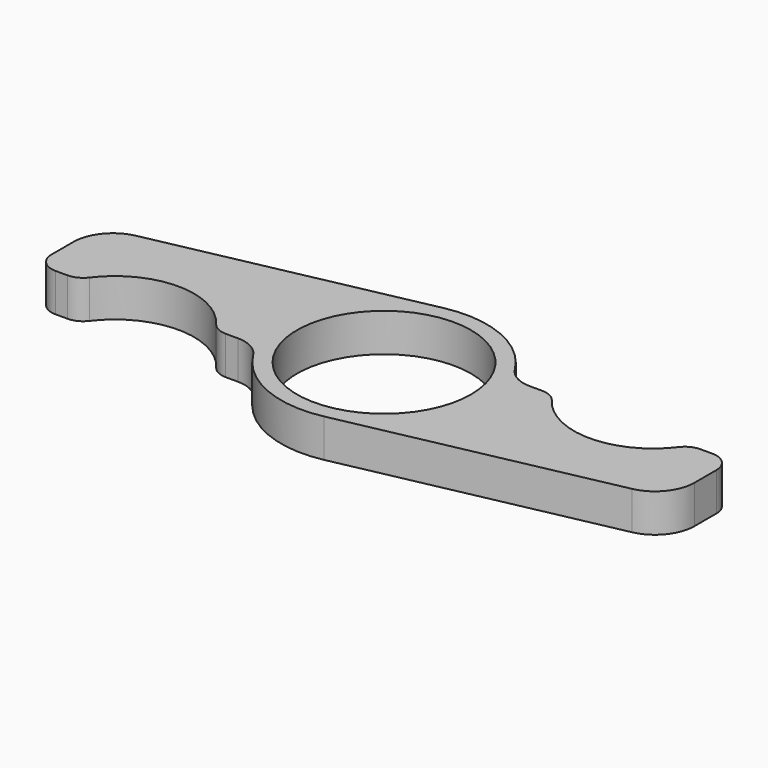
from build123d import *

# Parameters (mm, degrees)
F0_R     = 11
F1_DEPTH = 4.83


with BuildPart() as f1:
    # F0 (on Top) → F1 (new body)
    with BuildSketch(Plane.XY):
        with BuildLine():
            ThreePointArc((-14.422205, -5), (-12.48192, -5.502101), (-11.028745, -6.882353))
            ThreePointArc((-11.028745, -6.882353), (-5.115582, -11.951185), (2.633697, -12.730422))
            Line((2.633697, -12.730422), (36.01296, -5.824847))
            ThreePointArc((36.01296, -5.824847), (38.877164, -4.085682), (40, -0.928531))
            Line((40, -0.928531), (40, 2.5))
            ThreePointArc((40, 2.5), (39.267767, 4.267767), (37.5, 5))
            Line((37.5, 5), (36, 5))
            ThreePointArc((36, 5), (34.881966, 4.736068), (34, 4))
            ThreePointArc((34, 4), (26, 0), (18, 4))
            ThreePointArc((18, 4), (17.118034, 4.736068), (16, 5))
            Line((16, 5), (14.422205, 5))
            ThreePointArc((14.422205, 5), (12.48192, 5.502101), (11.028745, 6.882353))
            ThreePointArc((11.028745, 6.882353), (5.115582, 11.951185), (-2.633697, 12.730422))
            Line((-2.633697, 12.730422), (-36.01296, 5.824847))
            ThreePointArc((-36.01296, 5.824847), (-38.877164, 4.085682), (-40, 0.928531))
            Line((-40, 0.928531), (-40, -2.5))
            ThreePointArc((-40, -2.5), (-39.267767, -4.267767), (-37.5, -5))
            Line((-37.5, -5), (-36, -5))
            ThreePointArc((-36, -5), (-34.881966, -4.736068), (-34, -4))
            ThreePointArc((-34, -4), (-26, 0), (-18, -4))
            ThreePointArc((-18, -4), (-17.118034, -4.736068), (-16, -5))
            Line((-16, -5), (-14.422205, -5))
        make_face()
        Circle(F0_R, mode=Mode.SUBTRACT)
    extrude(amount=F1_DEPTH)


solid = f1.part
